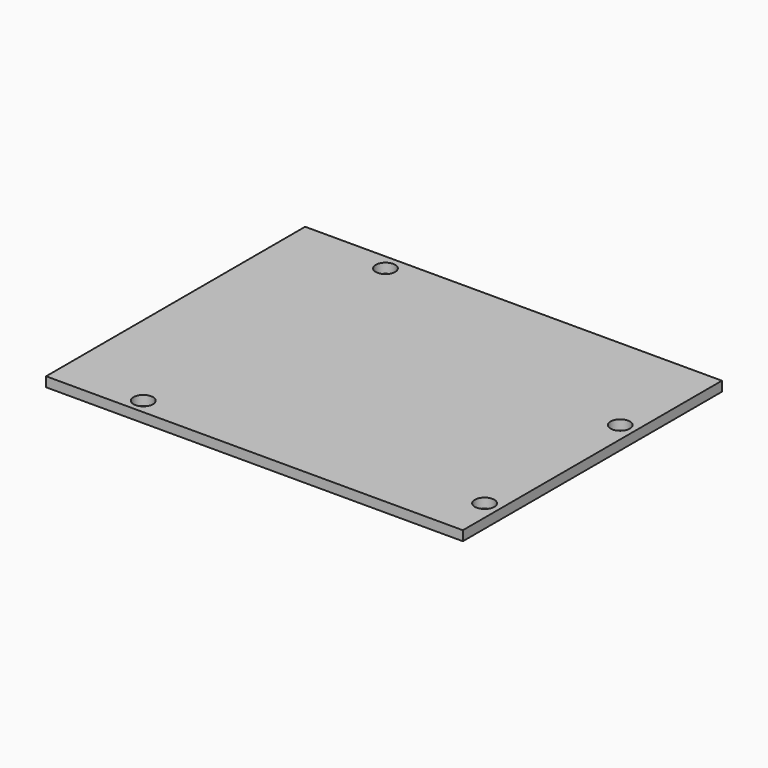
from build123d import *

# Parameters (mm, degrees)
F0_W     = 68.6
F0_H     = 53.3
F1_DEPTH = 1.6
F2_D     = 3.2


with BuildPart() as f1:
    # F0 (on Top) → F1 (new body)
    with BuildSketch(Plane.XY):
        with Locations((34.3, 26.65)):
            Rectangle(F0_W, F0_H)
    extrude(amount=F1_DEPTH)

    # F2 (through all)
    with Locations(Plane(origin=(0, 0, 0), x_dir=(1, 0, 0), z_dir=(0, 0, -1))):
        with Locations((15.3, -50.7), (66.1, -35.5), (66.1, -7.6), (14, -2.5)):
            Hole(F2_D / 2)


solid = f1.part
